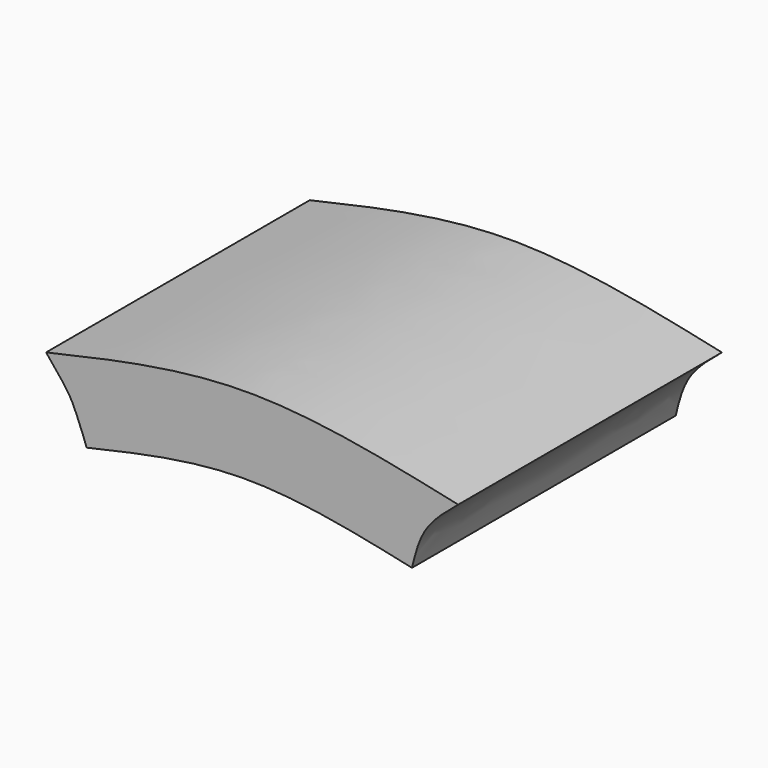
from build123d import *

# Parameters (mm, degrees)
F1_DEPTH = 15


with BuildPart() as f1:
    # F0 (on Front) → F1 (new body)
    with BuildSketch(Plane.XZ):
        with BuildLine():
            add(Edge.make_bspline(
                [(-9.010870941, 3.2163106371), (-8.7544002931, 2.9137218206), (-8.1526254508, 2.1738642917), (-7.8361406943, 1.6684940813), (-7.6011187237, 1.1319025455), (-7.2786424572, 0.3357431282), (-7.1655502125, 0)],
                knots=[0, 0, 0, 0, 0.3062620821, 0.5090123186, 0.7098960237, 1, 1, 1, 1], degree=3))
            add(Edge.make_bspline(
                [(-7.1655502125, 0), (-4.7966643027, 0.5418785795), (0.0168557143, 1.6429630424), (5.0735377721, 0.5533697886), (7.641665977, 0)],
                knots=[0, 0, 0, 0, 0.4921317438, 1, 1, 1, 1], degree=3))
            add(Edge.make_bspline(
                [(9.7449362325, 3.2163106371), (9.1821692913, 2.7527813922), (8.0918480122, 1.8547261544), (7.7884606274, 0.6047861889), (7.641665977, 0)],
                knots=[0, 0, 0, 0, 0.5161478107, 1, 1, 1, 1], degree=3))
            add(Edge.make_bspline(
                [(-9.010870941, 3.2163106371), (-6.0102821219, 3.9026901711), (0.086843233, 5.2973971574), (6.4919738395, 3.9172457026), (9.7449362325, 3.2163106371)],
                knots=[0, 0, 0, 0, 0.4921317438, 1, 1, 1, 1], degree=3))
        make_face()
    extrude(amount=F1_DEPTH)


solid = f1.part
